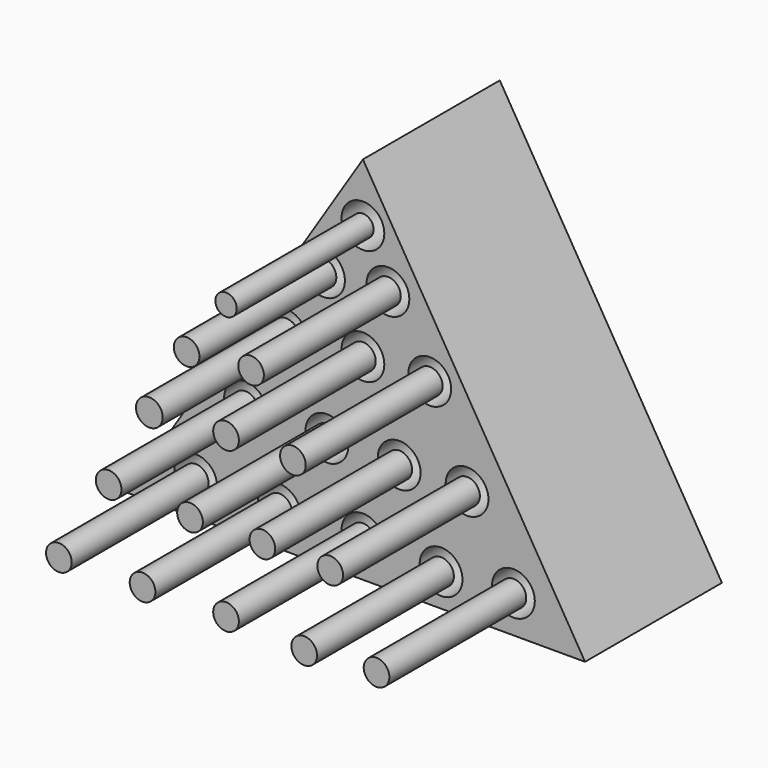
from build123d import *

# Parameters (mm, degrees)
F1_DEPTH  = 50.8
F2_R      = 6.35
F3_DEPTH  = 25.4
F4_R      = 6.35
F5_DEPTH  = 25.4
F6_R      = 6.35
F7_DEPTH  = 25.4
F8_R      = 6.35
F9_DEPTH  = 25.4
F10_R     = 3.175
F11_DEPTH = 50.8
F12_R     = 3.81
F13_DEPTH = 50.8
F14_R     = 3.81
F14_R_2   = 3.960713
F15_DEPTH = 50.8
F16_R     = 3.81
F17_DEPTH = 50.8


with BuildPart() as f1:
    # F0 (on Front) → F1 (new body)
    with BuildSketch(Plane.XZ):
        Polygon((65.954193, -36.663059), (0, 73.22783), (-70.082471, -36.663059), align=None)
    extrude(amount=F1_DEPTH)

    # F2 (on face) → F3 (cut)
    with BuildSketch(Plane.XZ.offset(50.8)):
        with Locations((-49.635228, -26.341923)):
            Circle(F2_R)
        with Locations((-24.796501, -26.006265)):
            Circle(F2_R)
        with Locations((0, -25.670605)):
            Circle(F2_R)
        with Locations((23.202648, -27.013239)):
            Circle(F2_R)
        with Locations((44.684786, -25.670605)):
            Circle(F2_R)
    extrude(amount=-F3_DEPTH, mode=Mode.SUBTRACT)

    # F4 (on face) → F5 (cut)
    with BuildSketch(Plane.XZ.offset(50.8)):
        with Locations((-34.866255, -2.510174)):
            Circle(F4_R)
        with Locations((-10.698847, -3.181492)):
            Circle(F4_R)
        with Locations((10.783288, -3.181492)):
            Circle(F4_R)
        with Locations((30.922793, -3.51715)):
            Circle(F4_R)
    extrude(amount=-F5_DEPTH, mode=Mode.SUBTRACT)

    # F6 (on face) → F7 (cut)
    with BuildSketch(Plane.XZ.offset(50.8)):
        with Locations((-22.782551, 20.314595)):
            Circle(F6_R)
        with Locations((0, 21.657228)):
            Circle(F6_R)
        with Locations((19.846065, 21.657228)):
            Circle(F6_R)
    extrude(amount=-F7_DEPTH, mode=Mode.SUBTRACT)

    # F8 (on face) → F9 (cut)
    with BuildSketch(Plane.XZ.offset(50.8)):
        with Locations((-11.705822, 39.782781)):
            Circle(F8_R)
        with Locations((7.426704, 41.125417)):
            Circle(F8_R)
        with Locations((0, 55.894386)):
            Circle(F8_R)
    extrude(amount=-F9_DEPTH, mode=Mode.SUBTRACT)


with BuildPart() as f11:
    # F10 (on face) → F11 (new body)
    with BuildSketch(Plane.XZ.offset(50.8)):
        with Locations((0, 55.894386)):
            Circle(F10_R)
    extrude(amount=F11_DEPTH)


with BuildPart() as f13:
    # F12 (on face) → F13 (new body)
    with BuildSketch(Plane.XZ.offset(50.8)):
        with Locations((-11.705822, 39.782781)):
            Circle(F12_R)
        with Locations((7.426704, 41.125417)):
            Circle(F12_R)
    extrude(amount=F13_DEPTH)


with BuildPart() as f15:
    # F14 (on face) → F15 (new body)
    with BuildSketch(Plane.XZ.offset(50.8)):
        with Locations((0, 21.657228)):
            Circle(F14_R)
        with Locations((19.846065, 21.657228)):
            Circle(F14_R)
        with Locations((-22.782551, 20.314595)):
            Circle(F14_R_2)
    extrude(amount=F15_DEPTH)


with BuildPart() as f17:
    # F16 (on face) → F17 (new body)
    with BuildSketch(Plane.XZ.offset(50.8)):
        with Locations((-49.635228, -26.341923)):
            Circle(F16_R)
        with Locations((-24.796501, -26.006265)):
            Circle(F16_R)
        with Locations((0, -25.670605)):
            Circle(F16_R)
        with Locations((23.202648, -27.013239)):
            Circle(F16_R)
        with Locations((44.684786, -25.670605)):
            Circle(F16_R)
        with Locations((-34.866255, -2.510174)):
            Circle(F16_R)
        with Locations((-10.698847, -3.181492)):
            Circle(F16_R)
        with Locations((10.783288, -3.181492)):
            Circle(F16_R)
        with Locations((30.922793, -3.51715)):
            Circle(F16_R)
    extrude(amount=F17_DEPTH)


solid = Compound([f1.part, f11.part, f13.part, f15.part, f17.part])
